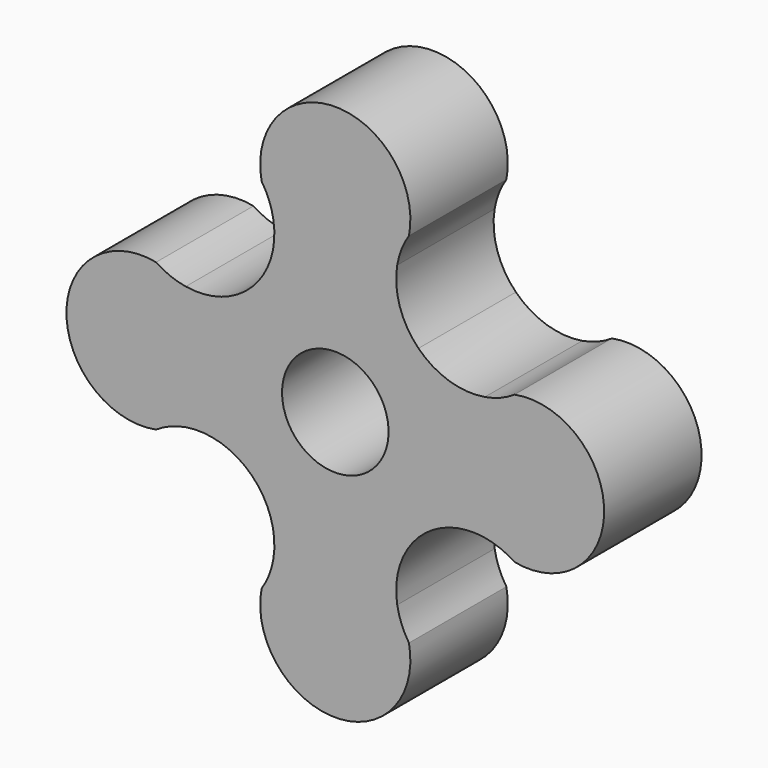
from build123d import *

# Parameters (mm, degrees)
F1_DEPTH = 4
F2_D     = 3.5


with BuildPart() as f1:
    # F0 (on Front) → F1 (new body)
    with BuildSketch(Plane.XZ):
        with BuildLine():
            ThreePointArc((-5.886911578, 2.4202266574), (-8.8319952599, 0), (-5.886911578, -2.4202266574))
            ThreePointArc((-5.886911578, -2.4202266574), (-6.365, 0), (-5.886911578, 2.4202266574))
        make_face()
        with BuildLine():
            ThreePointArc((-5.886911578, -2.4202266574), (-5.4202243386, -2.1759682794), (-4.9127177697, -2.0349143283))
            ThreePointArc((-4.9127177697, -2.0349143283), (-4.142309561, -1.1443981878), (-3.865, 0))
            ThreePointArc((-3.865, 0), (-4.142309561, 1.1443981878), (-4.9127177697, 2.0349143283))
            ThreePointArc((-4.9127177697, 2.0349143283), (-5.4202243386, 2.1759682794), (-5.886911578, 2.4202266574))
            ThreePointArc((-5.886911578, 2.4202266574), (-6.365, 0), (-5.886911578, -2.4202266574))
        make_face()
        with BuildLine():
            ThreePointArc((4.9127177697, -2.0349143283), (3.865, 0), (4.9127177697, 2.0349143283))
            ThreePointArc((4.9127177697, 2.0349143283), (3.7382668993, 2.1198434614), (2.7329677093, 2.7329677093))
            ThreePointArc((2.7329677093, 2.7329677093), (2.1198434614, 3.7382668993), (2.0349143283, 4.9127177697))
            ThreePointArc((2.0349143283, 4.9127177697), (0, 3.865), (-2.0349143283, 4.9127177697))
            ThreePointArc((-2.0349143283, 4.9127177697), (-2.7329677093, 2.7329677093), (-4.9127177697, 2.0349143283))
            ThreePointArc((-4.9127177697, 2.0349143283), (-4.142309561, 1.1443981878), (-3.865, 0))
            ThreePointArc((-3.865, 0), (-4.142309561, -1.1443981878), (-4.9127177697, -2.0349143283))
            ThreePointArc((-4.9127177697, -2.0349143283), (-2.7329677093, -2.7329677093), (-2.0349143283, -4.9127177697))
            ThreePointArc((-2.0349143283, -4.9127177697), (0, -3.865), (2.0349143283, -4.9127177697))
            ThreePointArc((2.0349143283, -4.9127177697), (2.7329677093, -2.7329677093), (4.9127177697, -2.0349143283))
        make_face()
        with BuildLine():
            ThreePointArc((-2.0349143283, 4.9127177697), (0, 3.865), (2.0349143283, 4.9127177697))
            ThreePointArc((2.0349143283, 4.9127177697), (2.1759682794, 5.4202243386), (2.4202266574, 5.886911578))
            ThreePointArc((2.4202266574, 5.886911578), (0, 6.365), (-2.4202266574, 5.886911578))
            ThreePointArc((-2.4202266574, 5.886911578), (-2.1759682794, 5.4202243386), (-2.0349143283, 4.9127177697))
        make_face()
        with BuildLine():
            ThreePointArc((-2.4202266574, 5.886911578), (0, 6.365), (2.4202266574, 5.886911578))
            ThreePointArc((2.4202266574, 5.886911578), (0, 8.8319952599), (-2.4202266574, 5.886911578))
        make_face()
        with BuildLine():
            ThreePointArc((5.886911578, -2.4202266574), (6.2443341196, -1.23349763), (6.365, 0))
            ThreePointArc((6.365, 0), (6.2443341196, 1.23349763), (5.886911578, 2.4202266574))
            ThreePointArc((5.886911578, 2.4202266574), (5.4202243386, 2.1759682794), (4.9127177697, 2.0349143283))
            ThreePointArc((4.9127177697, 2.0349143283), (3.865, 0), (4.9127177697, -2.0349143283))
            ThreePointArc((4.9127177697, -2.0349143283), (5.4202243386, -2.1759682794), (5.886911578, -2.4202266574))
        make_face()
        with BuildLine():
            ThreePointArc((5.886911578, 2.4202266574), (6.2443341196, 1.23349763), (6.365, 0))
            ThreePointArc((6.365, 0), (6.2443341196, -1.23349763), (5.886911578, -2.4202266574))
            ThreePointArc((5.886911578, -2.4202266574), (8.8319952599, 0), (5.886911578, 2.4202266574))
        make_face()
        with BuildLine():
            ThreePointArc((2.4202266574, -5.886911578), (2.1759682794, -5.4202243386), (2.0349143283, -4.9127177697))
            ThreePointArc((2.0349143283, -4.9127177697), (0, -3.865), (-2.0349143283, -4.9127177697))
            ThreePointArc((-2.0349143283, -4.9127177697), (-2.1759682794, -5.4202243386), (-2.4202266574, -5.886911578))
            ThreePointArc((-2.4202266574, -5.886911578), (0, -6.365), (2.4202266574, -5.886911578))
        make_face()
        with BuildLine():
            ThreePointArc((-2.4202266574, -5.886911578), (0, -8.8319952599), (2.4202266574, -5.886911578))
            ThreePointArc((2.4202266574, -5.886911578), (0, -6.365), (-2.4202266574, -5.886911578))
        make_face()
    extrude(amount=F1_DEPTH)

    # F2 (through all)
    with Locations(Plane(origin=(0, 0, 0), x_dir=(1, 0, 0), z_dir=(0, 1, 0))):
        with Locations((0, 0)):
            Hole(F2_D / 2)


solid = f1.part
